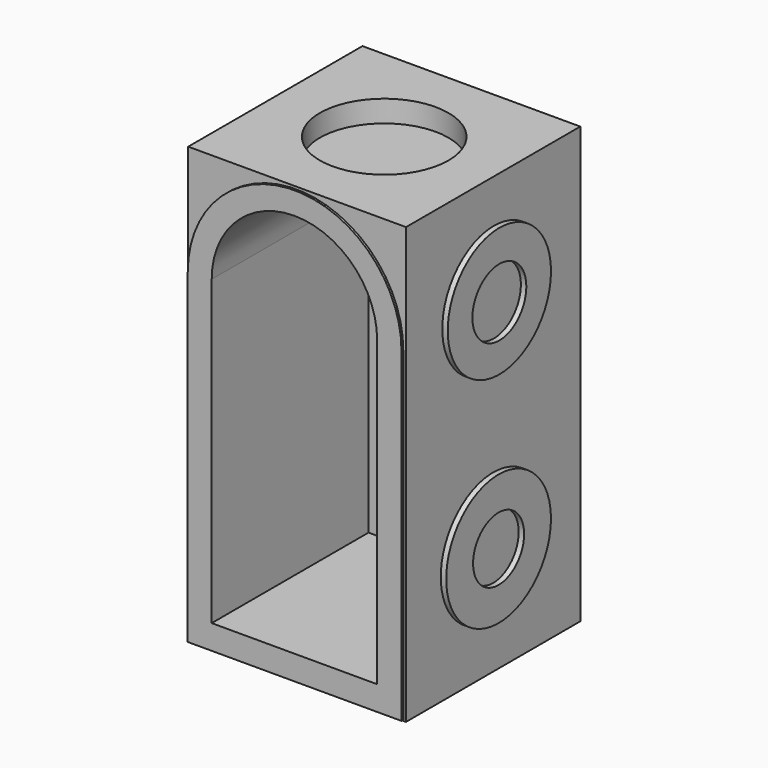
from build123d import *

# Parameters (mm, degrees)
BOX_W           = 10
BOX_H           = 10
BOX_DEPTH       = 20
PAD_DEPTH       = 0.1
POCKET_DEPTH    = 9
SKETCH_R        = 3.006594
SKETCH_R_2      = 1.465099
SKETCH_R_3      = 2.963699
SKETCH_R_4      = 1.547512
PAD001_DEPTH    = 0.25
SKETCH001_R     = 3.007895
SKETCH001_R_2   = 1.513665
SKETCH001_R_3   = 3.011791
SKETCH001_R_4   = 1.461759
PAD002_DEPTH    = 0.25
SKETCH004_R     = 3.006919
SKETCH004_R_2   = 1.50919
SKETCH004_R_3   = 3.034061
SKETCH004_R_4   = 1.481985
PAD003_DEPTH    = 0.1
SKETCH005_R     = 2.952769
POCKET001_DEPTH = 1


with BuildPart() as part:
    # Box → Box (new body)
    with BuildSketch(Plane.XY):
        with Locations((5, 5)):
            Rectangle(BOX_W, BOX_H)
    extrude(amount=BOX_DEPTH)

    # Sketch002 → Pad (new body)
    with BuildSketch(Plane.XZ):
        with BuildLine():
            ThreePointArc((9.873348, 14.982924), (4.965524, 19.890748), (0.0577, 14.982924))
            Line((0.0577, 14.982924), (0.0577, 0.03838))
            Line((0.0577, 0.03838), (9.873348, 0.03838))
            Line((9.873348, 14.982924), (9.873348, 0.03838))
        make_face()
    extrude(amount=PAD_DEPTH)

    # Sketch003 → Pocket (cut)
    with BuildSketch(Plane.XZ.offset(0.1)):
        with BuildLine():
            ThreePointArc((8.754824, 15.060687), (4.956489, 18.859022), (1.158155, 15.060687))
            Line((1.158155, 15.060687), (1.158155, 1.159242))
            Line((1.158155, 1.159242), (8.754824, 1.159242))
            Line((8.754824, 15.060687), (8.754824, 1.159242))
        make_face()
    extrude(amount=-POCKET_DEPTH, mode=Mode.SUBTRACT)

    # Sketch → Pad001 (new body)
    with BuildSketch(Plane.YZ.offset(10)):
        with Locations((5.000003, 5.047965)):
            Circle(SKETCH_R)
        with Locations((5.000003, 5.047965)):
            Circle(SKETCH_R_2, mode=Mode.SUBTRACT)
        with Locations((5.044216, 15.040468)):
            Circle(SKETCH_R_3)
        with Locations((5.044216, 14.996254)):
            Circle(SKETCH_R_4, mode=Mode.SUBTRACT)
    extrude(amount=PAD001_DEPTH)

    # Sketch001 → Pad002 (new body)
    with BuildSketch(Plane(origin=(0, 0, 0), x_dir=(0, -1, 0), z_dir=(-1, 0, 0))):
        with Locations((-5.044218, 14.996254)):
            Circle(SKETCH001_R)
        with Locations((-5.044218, 14.996254)):
            Circle(SKETCH001_R_2, mode=Mode.SUBTRACT)
        with Locations((-5.000003, 4.959535)):
            Circle(SKETCH001_R_3)
        with Locations((-5.000003, 4.959535)):
            Circle(SKETCH001_R_4, mode=Mode.SUBTRACT)
    extrude(amount=PAD002_DEPTH)

    # Sketch004 → Pad003 (new body)
    with BuildSketch(Plane(origin=(0, 10, 0), x_dir=(-1, 0, 0), z_dir=(0, 1, 0))):
        with Locations((-4.975261, 14.976268)):
            Circle(SKETCH004_R)
        with Locations((-4.975261, 14.976268)):
            Circle(SKETCH004_R_2, mode=Mode.SUBTRACT)
        with Locations((-5.048869, 4.965851)):
            Circle(SKETCH004_R_3)
        with Locations((-5.048869, 4.965851)):
            Circle(SKETCH004_R_4, mode=Mode.SUBTRACT)
    extrude(amount=PAD003_DEPTH)

    # Sketch005 → Pocket001 (cut)
    with BuildSketch(Plane.XY.offset(20)):
        with Locations((5.00277, 4.993419)):
            Circle(SKETCH005_R)
    extrude(amount=-POCKET001_DEPTH, mode=Mode.SUBTRACT)


solid = part.part
